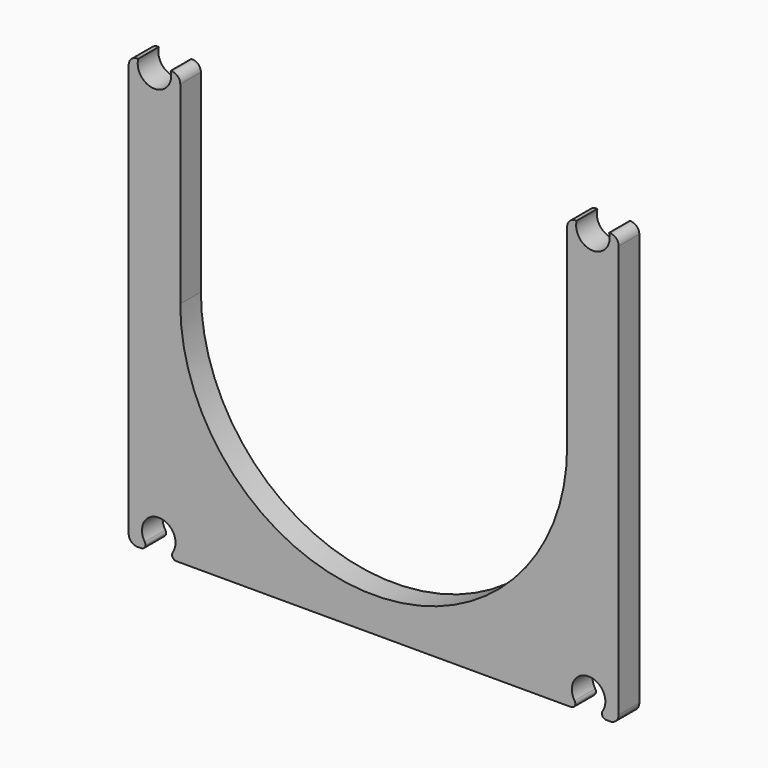
from build123d import *

# Parameters (mm, degrees)
F1_DEPTH = 6
F2_R     = 3.9
F3_DEPTH = 6.001
F4_R     = 2
F5_R     = 1


with BuildPart() as f1:
    # F0 (on Front) → F1 (new body)
    with BuildSketch(Plane.XZ):
        with BuildLine():
            ThreePointArc((45, 53), (0, 8), (-45, 53))
            Line((-45, 53), (-45, 100))
            Line((-45, 100), (-47.230384635, 100))
            ThreePointArc((-47.230384635, 100), (-51, 95.1), (-54.769615365, 100))
            Line((-54.769615365, 100), (-57, 100))
            Line((-57, 100), (-57, 0))
            Line((-57, 0), (57, 0))
            Line((57, 0), (57, 100))
            Line((57, 100), (54.769615365, 100))
            ThreePointArc((54.769615365, 100), (51, 95.1), (47.230384635, 100))
            Line((47.230384635, 100), (45, 100))
            Line((45, 100), (45, 53))
        make_face()
    extrude(amount=F1_DEPTH)

    # F2 (on Front) → F3 (cut, through all)
    with BuildSketch(Plane.XZ):
        with Locations((-50, 3.7)):
            Circle(F2_R)
        with Locations((50, 3.7)):
            Circle(F2_R)
    extrude(amount=F3_DEPTH, mode=Mode.SUBTRACT)

    # F4
    f4_edges = [f1.edges().sort_by_distance(p)[0] for p in [
        (-45, -3, 100),
        (45, -3, 100),
        (-57, -3, 100),
        (57, -3, 100),
        (57, -3, 0),
        (-57, -3, 0),
    ]]
    fillet(f4_edges, radius=F4_R)

    # F5
    f5_edges = [f1.edges().sort_by_distance(p)[0] for p in [
        (-48.767117, -3, 0),
        (-51.232883, -3, 0),
        (51.232883, -3, 0),
        (48.767117, -3, 0),
    ]]
    fillet(f5_edges, radius=F5_R)


solid = f1.part
